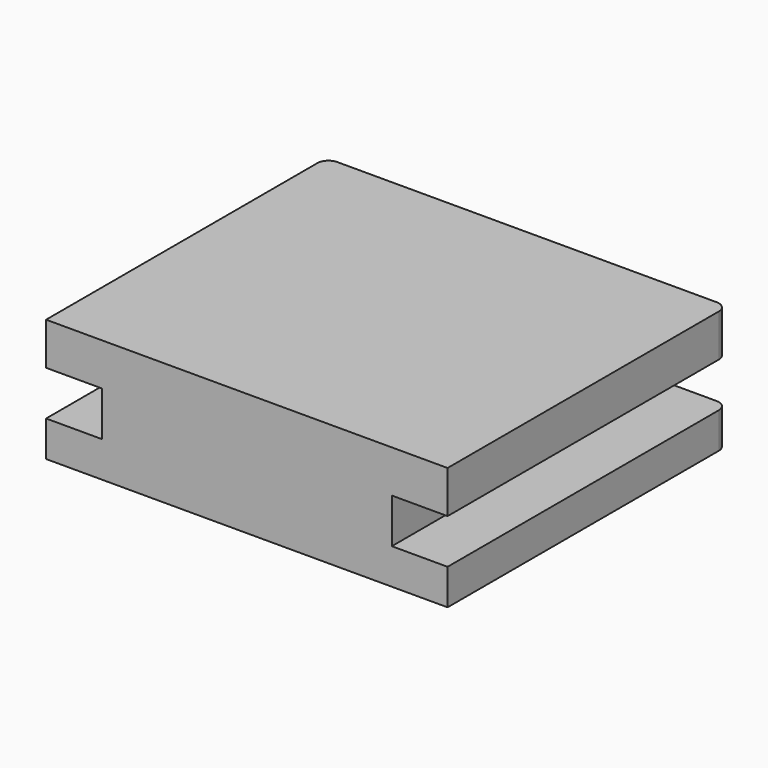
from build123d import *

# Parameters (mm, degrees)
F0_W     = 18
F0_H     = 15.7
F1_DEPTH = 5.5
F2_R     = 0.5
F3_W     = 2
F3_H     = 2
F3_W_2   = 0.5
F4_DEPTH = 25
F3_W_3   = 13
F5_DEPTH = 2


with BuildPart() as f1:
    # F0 (on Top) → F1 (new body)
    with BuildSketch(Plane.XY):
        Rectangle(F0_W, F0_H)
    extrude(amount=-F1_DEPTH)

    # F2
    f2_edges = [f1.edges().sort_by_distance(p)[0] for p in [
        (9, 7.85, -2.75),
        (-9, 7.85, -2.75),
    ]]
    fillet(f2_edges, radius=F2_R)

    # F3 (on face) → F4 (cut)
    with BuildSketch(Plane(origin=(0, 7.85, 0), x_dir=(-1, 0, 0), z_dir=(0, 1, 0))):
        with Locations((-7.5, -2.9)):
            Rectangle(F3_W, F3_H)
        with Locations((-8.75, -2.9)):
            Rectangle(F3_W_2, F3_H)
        with Locations((7.5, -2.9)):
            Rectangle(F3_W, F3_H)
        with Locations((8.75, -2.9)):
            Rectangle(F3_W_2, F3_H)
    extrude(amount=-F4_DEPTH, mode=Mode.SUBTRACT)

    # F3 (on face) → F5 (cut)
    with BuildSketch(Plane(origin=(0, 7.85, 0), x_dir=(-1, 0, 0), z_dir=(0, 1, 0))):
        with Locations((0, -2.9)):
            Rectangle(F3_W_3, F3_H)
    extrude(amount=-F5_DEPTH, mode=Mode.SUBTRACT)


solid = f1.part
